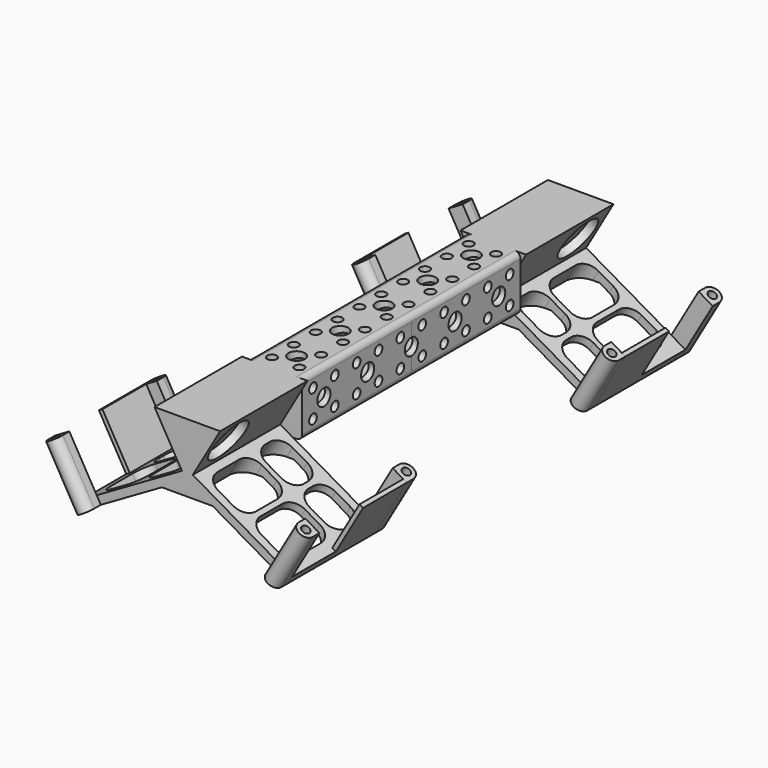
from build123d import *

# Parameters (mm, degrees)
F0_W           = 10
F0_H           = 20
F1_DEPTH       = 50
F3_DEPTH       = 40
F4_R           = 1.5
F5_DEPTH       = 23
F6_W           = 1.5
F6_H           = 20
F7_DEPTH       = 20
F9_D           = 8
F9_DEPTH       = 10
F9_CBORE_D     = 16
F9_CBORE_DEPTH = 3
F9_TIP         = 2.4034424761
F11_DEPTH      = 48
F12_W          = 16.25
F12_H          = 20
F12_H_2        = 12
F13_DEPTH      = 21.4375334795
F15_D          = 6
F17_D          = 6
F19_D          = 3.5
F21_D          = 3.5
F22_R          = 2
F23_R          = 5


with BuildPart() as f1:
    # F0 (on Front) → F1 (new body)
    with BuildSketch(Plane.XZ):
        with Locations((5, 0)):
            Rectangle(F0_W, F0_H)
    extrude(amount=F1_DEPTH)

    # F2 (on face) → F3 (join)
    with BuildSketch(Plane.XZ.offset(50)):
        Polygon((0.5, -9.918584287), (10, 6.5358983849), (10, 10), (0, 10), (0, -10), (0.6410161514, -10), align=None)
        Polygon((48.3730669589, -11), (12, 10), (10, 6.5358983849), (10, -10), (0.6410161514, -10), (9.3012701892, -15), (36.8730669589, -30.918584287), align=None)
        Polygon((0.5, -9.918584287), (10, 6.5358983849), (10, 10), (0, 10), (0, -10), (0.6410161514, -10), align=None)
        Polygon((10, -10), (10, 6.5358983849), (0.5, -9.918584287), (0.6410161514, -10), align=None)
        Polygon((10, 6.5358983849), (12, 10), (10, 10), align=None)
        Polygon((48.3730669589, -11), (12, 10), (10, 6.5358983849), (10, -10), (0.6410161514, -10), (9.3012701892, -15), (36.8730669589, -30.918584287), align=None)
        Polygon((9.3012701892, -15), (0.6410161514, -10), (0, -10), (0, -15), align=None)
    extrude(amount=F3_DEPTH)

    # F4 (on face) → F5 (join, through all)
    with BuildSketch(Plane(origin=(7.3301270189, 0, 12.6961524227), x_dir=(0.8660254038, 0, -0.5), z_dir=(0.5, 0, 0.8660254038))):
        with BuildLine():
            ThreePointArc((47.3923048454, -93), (46.513625189, -90.8786796564), (44.3923048454, -90))
            ThreePointArc((44.3923048454, -90), (42.2709845019, -90.8786796564), (41.3923048454, -93))
            ThreePointArc((41.3923048454, -93), (44.3923048454, -96), (47.3923048454, -93))
        make_face()
        with Locations((44.3923048454, -93)):
            Circle(F4_R, mode=Mode.SUBTRACT)
        with BuildLine():
            ThreePointArc((41.3923048454, -47), (42.2709845019, -49.1213203436), (44.3923048454, -50))
            ThreePointArc((44.3923048454, -50), (46.513625189, -49.1213203436), (47.3923048454, -47))
            ThreePointArc((47.3923048454, -47), (44.3923048454, -44), (41.3923048454, -47))
        make_face()
        with Locations((44.3923048454, -47)):
            Circle(F4_R, mode=Mode.SUBTRACT)
        with BuildLine():
            Line((41.3923048454, -47), (41.3923048454, -50))
            Line((41.3923048454, -50), (44.3923048454, -50))
            ThreePointArc((44.3923048454, -50), (42.2709845019, -49.1213203436), (41.3923048454, -47))
        make_face()
        with BuildLine():
            ThreePointArc((47.3923048454, -47), (46.513625189, -49.1213203436), (44.3923048454, -50))
            Line((44.3923048454, -50), (45.8923048454, -50))
            Line((45.8923048454, -50), (47.3923048454, -50))
            Line((47.3923048454, -50), (47.3923048454, -47))
        make_face()
        with BuildLine():
            Line((44.3923048454, -90), (41.3923048454, -90))
            Line((41.3923048454, -90), (41.3923048454, -93))
            ThreePointArc((41.3923048454, -93), (42.2709845019, -90.8786796564), (44.3923048454, -90))
        make_face()
        with BuildLine():
            Line((45.8923048454, -90), (44.3923048454, -90))
            ThreePointArc((44.3923048454, -90), (46.513625189, -90.8786796564), (47.3923048454, -93))
            Line((47.3923048454, -93), (47.3923048454, -90))
            Line((47.3923048454, -90), (45.8923048454, -90))
        make_face()
    extrude(amount=-F5_DEPTH)

    # F6 (on face) → F7 (cut)
    with BuildSketch(Plane(origin=(7.3301270189, 0, 12.6961524227), x_dir=(0.8660254038, 0, -0.5), z_dir=(0.5, 0, 0.8660254038))):
        with Locations((46.6423048454, -80)):
            Rectangle(F6_W, F6_H)
        Polygon((5.3923048454, -50), (5.3923048454, -90), (41.3923048454, -90), (44.3923048454, -90), (45.8923048454, -90), (45.8923048454, -70), (45.8923048454, -50), (44.3923049073, -50), (41.3923048454, -50), align=None)
    extrude(amount=-F7_DEPTH, mode=Mode.SUBTRACT)

    # F9
    with Locations(Plane(origin=(4.6698729811, 0, -2.6961524227), x_dir=(0, 1, 0), z_dir=(0.8660254038, 0, -0.5))):
        with Locations((-80, 4.6602540378)):
            CounterBoreHole(F9_D / 2, F9_CBORE_D / 2, F9_CBORE_DEPTH, depth=F9_DEPTH)
            with Locations((0, 0, -(F9_DEPTH + F9_TIP / 2))):  # 118° drill point
                Cone(0, F9_D / 2, F9_TIP, mode=Mode.SUBTRACT)

    # F10 (on face) → F11 (cut)
    with BuildSketch(Plane(origin=(0, 0, 0), x_dir=(-1, 0, 0), z_dir=(0, 1, 0))):
        with BuildLine():
            Line((0, -8), (0, 8))
            ThreePointArc((0, 8), (-8, 0), (0, -8))
        make_face()
    extrude(amount=-F11_DEPTH, mode=Mode.SUBTRACT)

    # F12 (on face) → F13 (cut, through all)
    with BuildSketch(Plane(origin=(-2.6698729811, 0, -4.624355653), x_dir=(0.8660254038, 0, -0.5), z_dir=(0.5, 0, 0.8660254038))):
        with Locations((16.5173048454, -77)):
            Rectangle(F12_W, F12_H)
        with Locations((16.5173048454, -59)):
            Rectangle(F12_W, F12_H_2)
        with Locations((34.7673048454, -59)):
            Rectangle(F12_W, F12_H_2)
        with Locations((34.7673048454, -77)):
            Rectangle(F12_W, F12_H)
    extrude(amount=-F13_DEPTH, mode=Mode.SUBTRACT)

    # F15 (through all)
    with Locations(Plane.YZ.offset(10)):
        with Locations((0, 0), (-20, 0), (-40, 0)):
            Hole(F15_D / 2)

    # F17 (through all)
    with Locations(Plane.XY.offset(10)):
        with Locations((0, 0), (0, -20), (0, -40)):
            Hole(F17_D / 2)

    # F19 (through all)
    with Locations(Plane.YZ.offset(10)):
        with Locations((-5, 5), (-5, -5), (-15, -5), (-15, 5), (-25, 5), (-25, -5), (-35, -5), (-35, 5), (-45, 5), (-45, -5)):
            Hole(F19_D / 2)

    # F21 (through all)
    with Locations(Plane.XY.offset(10)):
        with Locations((5, -5), (5, -15), (5, -25), (5, -35), (5, -45)):
            Hole(F21_D / 2)

    # F22
    f22_edges = [f1.edges().sort_by_distance(p)[0] for p in [
        (10, -25, 10),
        (10, -25, -10),
    ]]
    fillet(f22_edges, radius=F22_R)

    # F23
    f23_edges = [f1.edges().sort_by_distance(p)[0] for p in [
        (2.814211, -67, -11.910254),
        (2.814211, -53, -11.910254),
        (19.65304, -53, -19.244546),
        (19.65304, -67, -19.244546),
        (2.814211, -87, -11.910254),
        (2.814211, -65, -11.910254),
        (19.65304, -65, -19.244546),
        (19.65304, -87, -19.244546),
        (17.920989, -65, -18.244546),
        (33.725953, -65, -27.369546),
        (33.725953, -87, -27.369546),
        (17.920989, -87, -18.244546),
        (17.920989, -53, -18.244546),
        (33.725953, -53, -27.369546),
        (33.725953, -67, -27.369546),
        (17.920989, -67, -18.244546),
    ]]
    fillet(f23_edges, radius=F23_R)

    # F24: F1 across face


with BuildPart() as f1_1:
    add(f1.part)
    add(f1.part.mirror(Plane(origin=(0, -10, -9), x_dir=(0, -1, 0), z_dir=(-1, 0, 0))))

    # F25: F1 across plane


with BuildPart() as f1_2:
    add(f1_1.part)
    add(f1_1.part.mirror(Plane.XZ))


solid = f1_2.part
